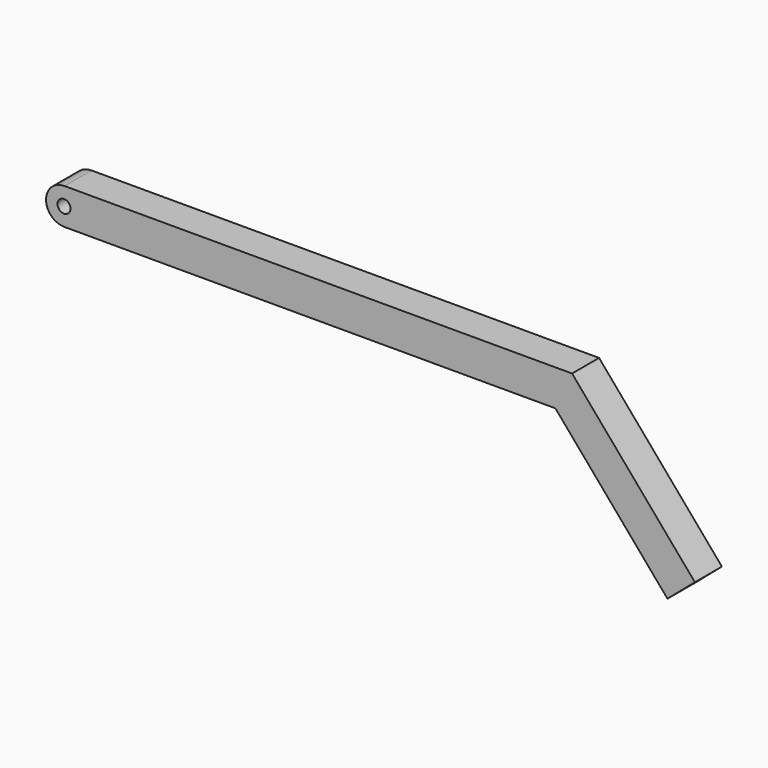
from build123d import *

# Parameters (mm, degrees)
F2_W          = 62.2634254396
F2_H          = 66.4744749665
F2_W_2        = 53.8413152099
F2_H_2        = 57.4507899582
F4_R          = 33.0786713832
F5_DEPTH      = 31.1317127198
F5_DEPTH_BACK = 31.1317127198
F6_R          = 11.9370670554
F7_DEPTH      = 62.2634254396


with BuildPart() as f3:
    # F3: sweep along a path in F0
    with BuildLine(Plane.XZ) as f3_path:
        Line((-920.0506210327, 0), (0, 0))
        Line((0, 0), (216.415554285, -253.3791065216))
    # F2 (on plane+point) → F3 (sweep)
    with BuildSketch(Plane.YZ.offset(-920.0506210327)):
        Rectangle(F2_W, F2_H)
        Rectangle(F2_W_2, F2_H_2, mode=Mode.SUBTRACT)
    sweep(path=f3_path.line, transition=Transition.RIGHT)

    # F4 (on Front) → F5 (join, two sides)
    with BuildSketch(Plane.XZ) as f5_sk:
        with Locations((-920.9526777267, 0)):
            Circle(F4_R)
    extrude(amount=F5_DEPTH)
    extrude(f5_sk.sketch, amount=-F5_DEPTH_BACK)

    # F6 (on face) → F7 (cut, through all)
    with BuildSketch(Plane(origin=(0, 31.1317127198, 0), x_dir=(-1, 0, 0), z_dir=(0, 1, 0))):
        with Locations((920.9526777267, 0)):
            Circle(F6_R)
    extrude(amount=-F7_DEPTH, mode=Mode.SUBTRACT)


solid = f3.part
